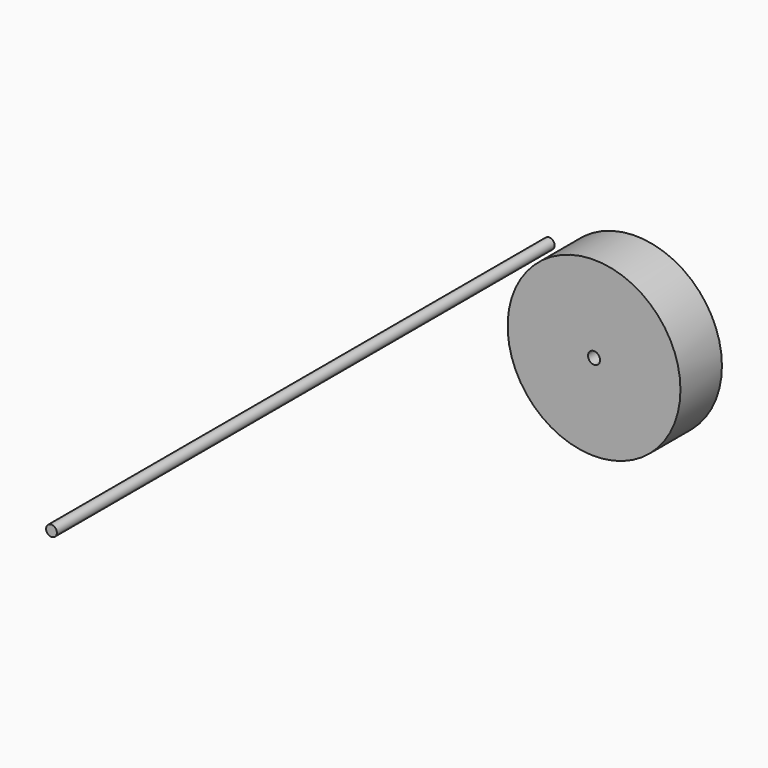
from build123d import *

# Parameters (mm, degrees)
F0_R     = 7.9375
F1_DEPTH = 914.4
F0_R_2   = 127
F0_R_3   = 8.89
F2_DEPTH = 76.2


with BuildPart() as f1:
    # F0 (on Front) → F1 (new body)
    with BuildSketch(Plane.XZ):
        with Locations((-27.199171, 32.797288)):
            Circle(F0_R)
    extrude(amount=F1_DEPTH)


with BuildPart() as f2:
    # F0 (on Front) → F2 (new body)
    with BuildSketch(Plane.XZ):
        with Locations((99.682331, -42.99549)):
            Circle(F0_R_2)
        with Locations((99.682331, -42.99549)):
            Circle(F0_R_3, mode=Mode.SUBTRACT)
    extrude(amount=F2_DEPTH)


solid = Compound([f1.part, f2.part])
